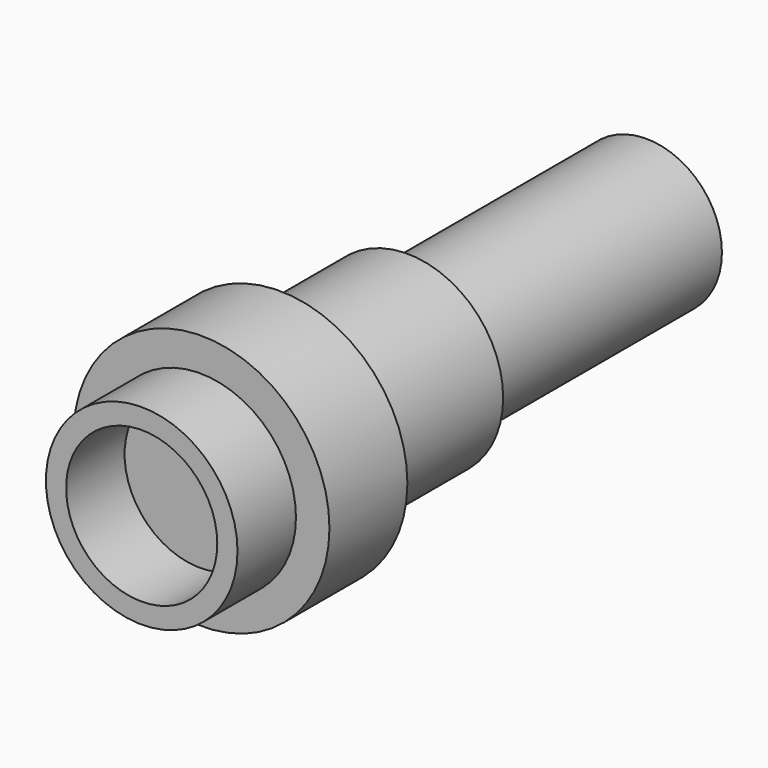
from build123d import *

# Parameters (mm, degrees)
F0_R     = 2.9972
F0_R_2   = 2.3642688297
F1_DEPTH = 2.286
F0_R_3   = 4.0005
F2_DEPTH = 3.048
F3_DEPTH = 10.3886
F4_DEPTH = 17.4498


with BuildPart() as f1:
    # F0 (on Front) → F1 (new body)
    with BuildSketch(Plane.XZ):
        Circle(F0_R)
        Circle(F0_R_2, mode=Mode.SUBTRACT)
    extrude(amount=F1_DEPTH)


with BuildPart() as f2:
    # F0 (on Front) → F2 (new body)
    with BuildSketch(Plane.XZ):
        with Locations((0.0446345569, 0.0446349857)):
            Circle(F0_R_3)
        Circle(F0_R, mode=Mode.SUBTRACT)
    extrude(amount=-F2_DEPTH)


with BuildPart() as f3:
    # F3 (new): a face of the model
    f3_faces = [f1.part.faces().sort_by_distance(p)[0] for p in [
        (-2.9124263822, -2.286, 0),
    ]]
    extrude(f3_faces, amount=-F3_DEPTH)


with BuildPart() as f4:
    # F0 (on Front) → F4 (new body)
    with BuildSketch(Plane.XZ):
        Circle(F0_R_2)
    extrude(amount=-F4_DEPTH)


solid = Compound([f1.part, f2.part, f3.part, f4.part])
